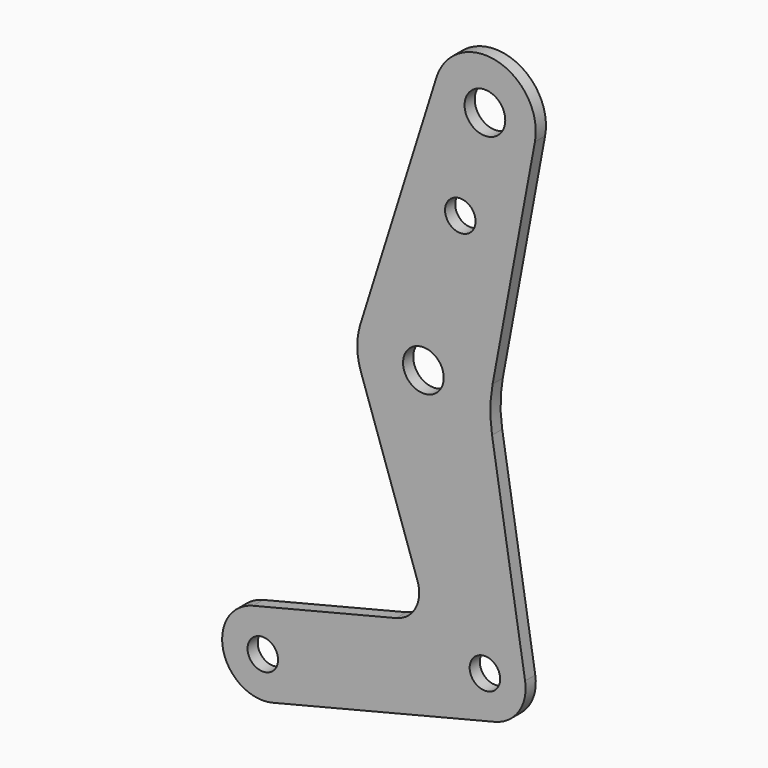
from build123d import *

# Parameters (mm, degrees)
F0_R     = 3
F0_R_2   = 4
F1_DEPTH = 1.25


with BuildPart() as f1:
    # F0 (on Front) → F1 (new body, symmetric)
    with BuildSketch(Plane.XZ):
        with BuildLine():
            Line((-9.540323, 2.997038), (-24.498515, -44.618637))
            ThreePointArc((-24.498515, -44.618637), (-25.095091, -48.676351), (-24.397848, -52.717984))
            Line((-24.397848, -52.717984), (-13.238919, -85.377495))
            ThreePointArc((-13.238919, -85.377495), (-13.64715, -90.186641), (-17.46512, -93.139207))
            Line((-17.46512, -93.139207), (-45.598683, -100.153692))
            ThreePointArc((-45.598683, -100.153692), (-51.425673, -109.851433), (-41.727933, -115.678424))
            Line((-41.727933, -115.678424), (1.935375, -104.791938))
            ThreePointArc((1.935375, -104.791938), (6.676329, -101.437138), (7.89851, -95.759321))
            Line((7.89851, -95.759321), (1.400383, -55.353513))
            ThreePointArc((1.400383, -55.353513), (1.072548, -50.902106), (1.510905, -46.460221))
            Line((1.510905, -46.460221), (9.830629, -1.832683))
            ThreePointArc((9.830629, -1.832683), (2.419219, 9.702957), (-9.540323, 2.997038))
        make_face()
        with Locations((-43.663308, -107.916058)):
            Circle(F0_R, mode=Mode.SUBTRACT)
        with Locations((0, -97.029573)):
            Circle(F0_R, mode=Mode.SUBTRACT)
        with Locations((-12.096095, -48.514786)):
            Circle(F0_R_2, mode=Mode.SUBTRACT)
        with Locations((-4.838438, -19.405915)):
            Circle(F0_R, mode=Mode.SUBTRACT)
        Circle(F0_R_2, mode=Mode.SUBTRACT)
    extrude(amount=F1_DEPTH, both=True)


solid = f1.part
